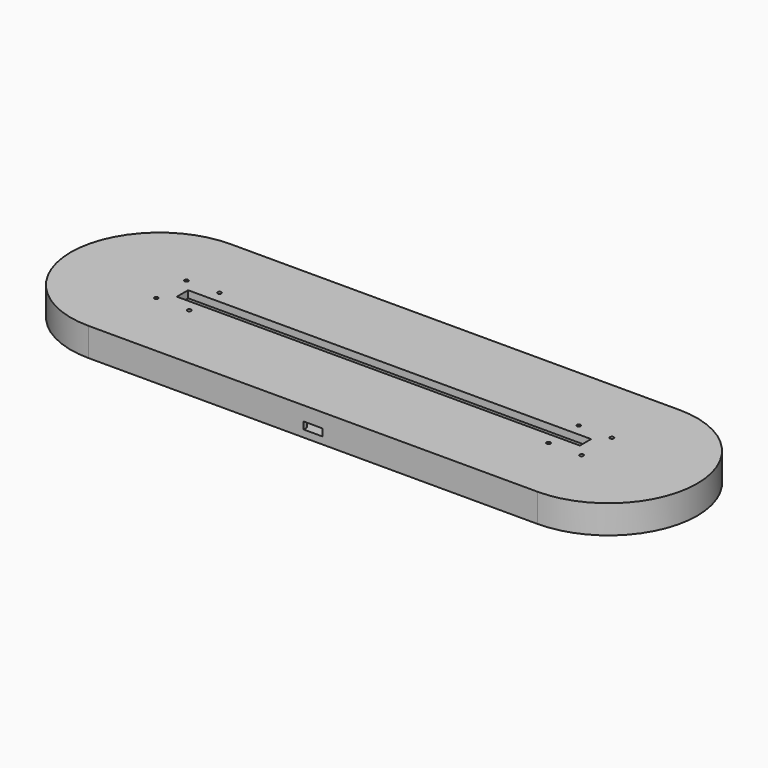
from build123d import *

# Parameters (mm, degrees)
PAD_DEPTH       = 6
POCKET_DEPTH    = 3
SKETCH002_W     = 18.4
SKETCH002_H     = 20.85
POCKET001_DEPTH = 3
SKETCH003_W     = 8
SKETCH003_H     = 1.65
POCKET002_DEPTH = 3
PAD001_DEPTH    = 3
SKETCH005_W     = 170.5
SKETCH005_H     = 5.95
PAD002_DEPTH    = 3
SKETCH007_R     = 0.8
POCKET003_DEPTH = 563.341185
SKETCH008_W     = 4
SKETCH008_H     = 5.84
POCKET004_DEPTH = 3


with BuildPart() as part:
    # Sketch → Pad (new body)
    with BuildSketch(Plane.XY):
        with BuildLine():
            ThreePointArc((-95, 37.5), (-132.5, 0), (-95, -37.5))
            Line((-95, -37.5), (95, -37.5))
            ThreePointArc((95, -37.5), (132.5, 0), (95, 37.5))
            Line((-95, 37.5), (95, 37.5))
        make_face()
    extrude(amount=PAD_DEPTH)

    # Sketch001 (on Face6 of Pad) → Pocket (cut)
    with BuildSketch(Plane.XY.offset(6)):
        with BuildLine():
            ThreePointArc((-87.3, 6), (-93.3, 0), (-87.3, -6))
            Line((-87.3, -6), (87.3, -6))
            ThreePointArc((87.3, -6), (93.3, 0), (87.3, 6))
            Line((-87.3, 6), (87.3, 6))
        make_face()
    extrude(amount=-POCKET_DEPTH, mode=Mode.SUBTRACT)

    # Sketch002 (on Face5 of Pocket) → Pocket001 (cut)
    with BuildSketch(Plane.XY.offset(6)):
        with Locations((0, -25.425)):
            Rectangle(SKETCH002_W, SKETCH002_H)
    extrude(amount=-POCKET001_DEPTH, mode=Mode.SUBTRACT)

    # Sketch003 (on Face5 of Pocket001) → Pocket002 (cut)
    with BuildSketch(Plane.XY.offset(6)):
        with Locations((0, -36.675)):
            Rectangle(SKETCH003_W, SKETCH003_H)
    extrude(amount=-POCKET002_DEPTH, mode=Mode.SUBTRACT)

    # Sketch004 (on Face5 of Pocket002) → Pad001 (join)
    with BuildSketch(Plane.XY.offset(6)):
        with BuildLine():
            ThreePointArc((-95, 37.5), (-132.5, 0), (-95, -37.5))
            Line((-95, -37.5), (95, -37.5))
            ThreePointArc((95, -37.5), (132.5, 0), (95, 37.5))
            Line((-95, 37.5), (95, 37.5))
        make_face()
        with BuildLine():
            ThreePointArc((-87.3, 6), (-93.3, 0), (-87.3, -6))
            Line((-87.3, -6), (87.3, -6))
            ThreePointArc((87.3, -6), (93.3, 0), (87.3, 6))
            Line((-87.3, 6), (87.3, 6))
        make_face(mode=Mode.SUBTRACT)
    extrude(amount=PAD001_DEPTH)

    # Sketch005 (on Face12 of Pad001) → Pad002 (join)
    with BuildSketch(Plane.XY.offset(9)):
        with BuildLine():
            ThreePointArc((-95, 37.5), (-132.5, 0), (-95, -37.5))
            Line((-95, -37.5), (95, -37.5))
            ThreePointArc((95, -37.5), (132.5, 0), (95, 37.5))
            Line((-95, 37.5), (95, 37.5))
        make_face()
        Rectangle(SKETCH005_W, SKETCH005_H, mode=Mode.SUBTRACT)
    extrude(amount=PAD002_DEPTH)

    # Sketch007 (on Face20 of Pad002) → Pocket003 (cut, through all)
    with BuildSketch(Plane.XY.offset(12)):
        with Locations((-90, -8)):
            Circle(SKETCH007_R)
        with Locations((-90, 8)):
            Circle(SKETCH007_R)
        with Locations((-76, 8)):
            Circle(SKETCH007_R)
        with Locations((-76, -8)):
            Circle(SKETCH007_R)
    pocket003 = extrude(amount=-POCKET003_DEPTH, mode=Mode.SUBTRACT)

    # Mirrored: Pocket003 across Sketch007 V_Axis
    add(pocket003.mirror(Plane(origin=(0, 0, 12), x_dir=(0, 0, 1), z_dir=(1, 0, 0))), mode=Mode.SUBTRACT)

    # Sketch008 (on Face5 of Pocket) → Pocket004 (cut)
    with BuildSketch(Plane.XY.offset(6)):
        with Locations((-94.541526, 0)):
            Rectangle(SKETCH008_W, SKETCH008_H)
        with Locations((94.541526, 0)):
            Rectangle(SKETCH008_W, SKETCH008_H)
    extrude(amount=-POCKET004_DEPTH, mode=Mode.SUBTRACT)


solid = part.part
